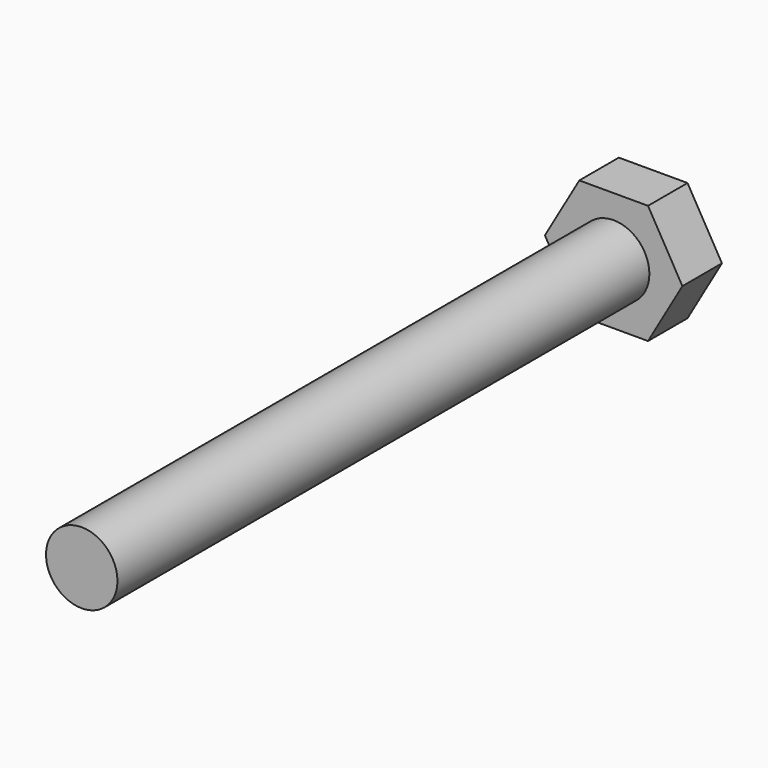
from build123d import *

# Parameters (mm, degrees)
F0_R     = 3
F1_DEPTH = 4.15
F2_DEPTH = 60


with BuildPart() as f1:
    # F0 (on Front) → F1 (new body)
    with BuildSketch(Plane.XZ):
        Polygon((2.886751, 5), (-2.886751, 5), (-5.773503, 0), (-2.886751, -5), (2.886751, -5), (5.773503, 0), align=None)
        Circle(F0_R, mode=Mode.SUBTRACT)
        Circle(F0_R)
    extrude(amount=F1_DEPTH)

    # F0 (on Front) → F2 (join)
    with BuildSketch(Plane.XZ):
        Circle(F0_R)
    extrude(amount=F2_DEPTH)


solid = f1.part
